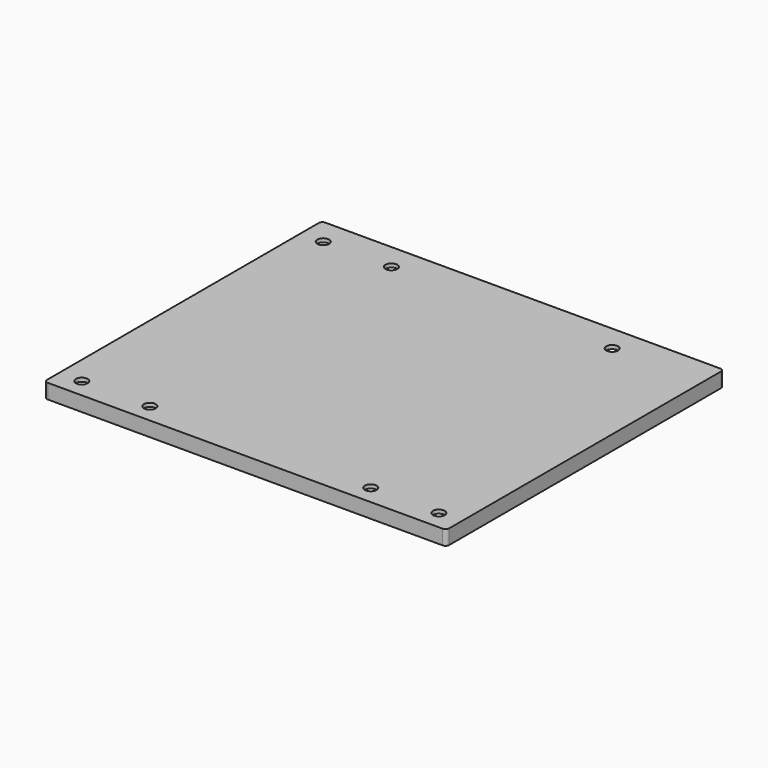
from build123d import *

# Parameters (mm, degrees)
PAD015_DEPTH    = 1
PAD016_DEPTH    = 3
SKETCH029_R     = 1.6
POCKET012_DEPTH = 5


with BuildPart() as part:
    # Sketch027 → Pad015 (new body)
    with BuildSketch(Plane.XY):
        with BuildLine():
            Line((-54.625, 46.125), (-54.625, -46.125))
            ThreePointArc((-54.625, -46.125), (-54.332107, -46.832107), (-53.625, -47.125))
            Line((-53.625, -47.125), (53.625, -47.125))
            ThreePointArc((53.625, -47.125), (54.332107, -46.832107), (54.625, -46.125))
            Line((54.625, -46.125), (54.625, 46.125))
            ThreePointArc((54.625, 46.125), (54.332107, 46.832107), (53.625, 47.125))
            Line((53.625, 47.125), (-53.625, 47.125))
            ThreePointArc((-53.625, 47.125), (-54.332107, 46.832107), (-54.625, 46.125))
        make_face()
    extrude(amount=PAD015_DEPTH)

    # Sketch028 → Pad016 (join)
    with BuildSketch(Plane.XY):
        with BuildLine():
            Line((-54.625, 46.125), (-54.625, -46.125))
            ThreePointArc((-54.625, -46.125), (-54.332107, -46.832107), (-53.625, -47.125))
            Line((-53.625, -47.125), (53.625, -47.125))
            ThreePointArc((53.625, -47.125), (54.332107, -46.832107), (54.625, -46.125))
            Line((54.625, -46.125), (54.625, 46.125))
            ThreePointArc((54.625, 46.125), (54.332107, 46.832107), (53.625, 47.125))
            Line((53.625, 47.125), (-53.625, 47.125))
            ThreePointArc((-53.625, 47.125), (-54.332107, 46.832107), (-54.625, 46.125))
        make_face()
        with BuildLine():
            Line((-53.625, 45.125), (-53.625, -45.125))
            ThreePointArc((-53.625, -45.125), (-53.332107, -45.832107), (-52.625, -46.125))
            Line((-52.625, -46.125), (52.625, -46.125))
            ThreePointArc((52.625, -46.125), (53.332107, -45.832107), (53.625, -45.125))
            Line((53.625, -45.125), (53.625, 45.125))
            ThreePointArc((53.625, 45.125), (53.332107, 45.832107), (52.625, 46.125))
            Line((52.625, 46.125), (-52.625, 46.125))
            ThreePointArc((-52.625, 46.125), (-53.332107, 45.832107), (-53.625, 45.125))
        make_face(mode=Mode.SUBTRACT)
    extrude(amount=-PAD016_DEPTH)

    # Sketch029 → Pocket012 (cut)
    with BuildSketch(Plane.XY):
        with Locations((-48.5, 40)):
            Circle(SKETCH029_R)
        with Locations((-30, 40)):
            Circle(SKETCH029_R)
        with Locations((30, 40)):
            Circle(SKETCH029_R)
        with Locations((-30, -42)):
            Circle(SKETCH029_R)
        with Locations((-48.5, -42)):
            Circle(SKETCH029_R)
        with Locations((30, -42)):
            Circle(SKETCH029_R)
        with Locations((48.5, -42)):
            Circle(SKETCH029_R)
    extrude(amount=POCKET012_DEPTH, mode=Mode.SUBTRACT)


with BuildPart() as part_1:
    # Body007 placement: moved
    add(part.part.moved(Location((0, 0, 36.1))))


solid = part_1.part
